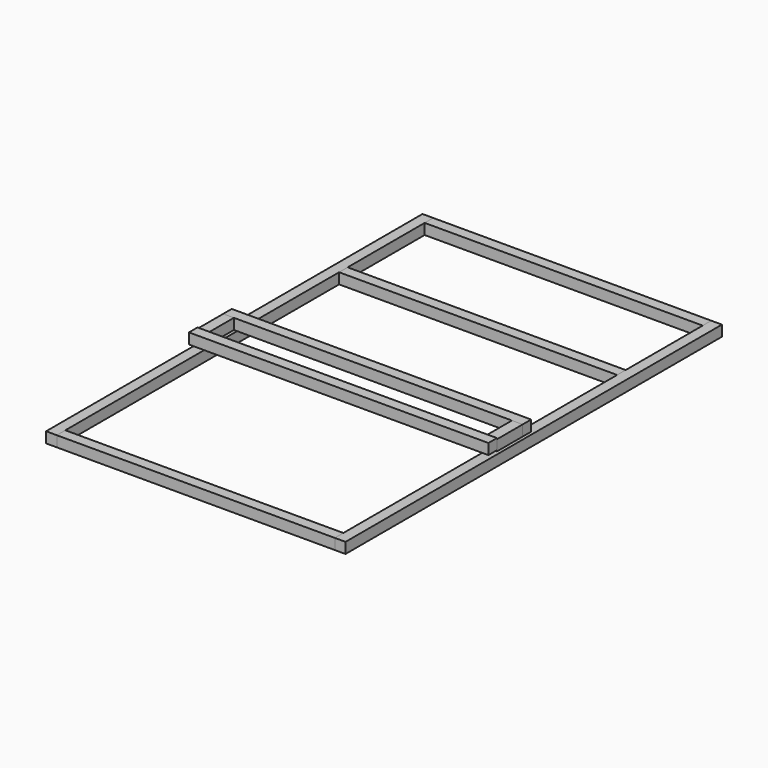
from build123d import *

# Parameters (mm, degrees)
F0_W     = 25.4
F0_H     = 25.4
F1_DEPTH = 558.8
F2_W     = 25.4
F2_H     = 25.4
F3_DEPTH = 660.4
F4_W     = 25.4
F4_H     = 25.4
F5_DEPTH = 711.2
F6_W     = 25.4
F6_H     = 25.4
F7_DEPTH = 76.2


with BuildPart() as f1:
    # F0 (on Front) → F1 (new body, symmetric)
    with BuildSketch(Plane.XZ):
        with Locations((-342.9, 0)):
            Rectangle(F0_W, F0_H)
        with Locations((342.9, 0)):
            Rectangle(F0_W, F0_H)
    extrude(amount=F1_DEPTH, both=True)


with BuildPart() as f3:
    # F2 (on face) → F3 (new body, through all)
    with BuildSketch(Plane.YZ.offset(-330.2)):
        with Locations((546.1, 0)):
            Rectangle(F2_W, F2_H)
        with Locations((292.1, 0)):
            Rectangle(F2_W, F2_H)
        with Locations((-546.1, 0)):
            Rectangle(F2_W, F2_H)
    extrude(amount=F3_DEPTH)


with BuildPart() as f5:
    # F4 (on face) → F5 (new body, through all)
    with BuildSketch(Plane(origin=(-355.6, 0, 0), x_dir=(0, -1, 0), z_dir=(-1, 0, 0))):
        with Locations((20.269574, 31.75)):
            Rectangle(F4_W, F4_H)
        with Locations((121.869574, 34.304203)):
            Rectangle(F4_W, F4_H)
    extrude(amount=-F5_DEPTH)


with BuildPart() as f7:
    # F6 (on face) → F7 (new body, through all)
    with BuildSketch(Plane.XZ.offset(32.969574)):
        with Locations((-342.9, 31.75)):
            Rectangle(F6_W, F6_H)
        with Locations((342.9, 31.75)):
            Rectangle(F6_W, F6_H)
    extrude(amount=F7_DEPTH)


solid = Compound([f1.part, f3.part, f5.part, f7.part])
